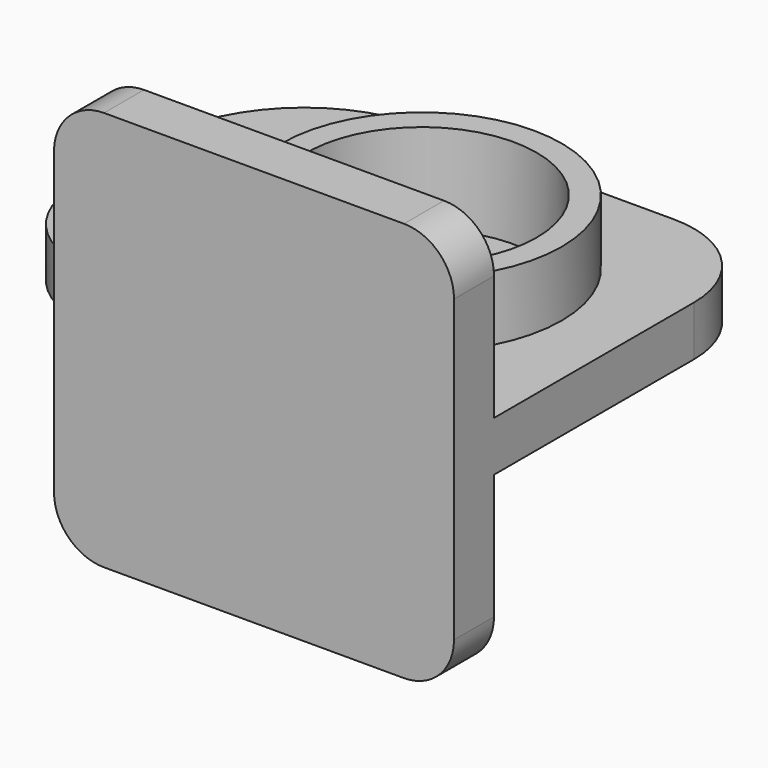
from build123d import *

# Parameters (mm, degrees)
F0_W      = 20
F0_H      = 5
F1_DEPTH  = 20
F1_FACE_W = 40
F1_FACE_H = 5
F2_DEPTH  = 20
F0_R      = 14
F0_R_2    = 11.5
F3_DEPTH  = 9
F0_R_3    = 4.25
F4_DEPTH  = 2.5
F0_R_4    = 6.5
F5_DEPTH  = 2.5
F6_R      = 15
F6_2_R    = 15
F7_R      = 10
F7_2_R    = 10
F8_R      = 10
F8_2_R    = 10
F9_R      = 5
F11_R     = 2.5
F12_DEPTH = 1.5


with BuildPart() as f1:
    # F0 (on Top) → F1 (new body)
    with BuildSketch(Plane.XY):
        with Locations((-9.850006, -18.65)):
            Rectangle(F0_W, F0_H)
        with Locations((10.149994, -18.65)):
            Rectangle(F0_W, F0_H)
    extrude(amount=F1_DEPTH)

    # F1_face (on face) → F2 (join)
    with BuildSketch(Plane(origin=(0.149994, -18.65, 0), x_dir=(1, 0, 0), z_dir=(0, 0, -1))):
        Rectangle(F1_FACE_W, F1_FACE_H)
    extrude(amount=F2_DEPTH)

    # F9
    f9_edges = [f1.edges().sort_by_distance(p)[0] for p in [
        (-19.850006, -18.65, 20),
        (20.149994, -18.65, 20),
        (20.149994, -18.65, -20),
        (-19.850006, -18.65, -20),
    ]]
    fillet(f9_edges, radius=F9_R)


with BuildPart() as f3:
    # F0 (on Top) → F3 (new body)
    with BuildSketch(Plane.XY):
        Circle(F0_R)
        Circle(F0_R_2, mode=Mode.SUBTRACT)
    extrude(amount=F3_DEPTH)


with BuildPart() as f4:
    # F0 (on Top) → F4 (new body)
    with BuildSketch(Plane.XY):
        Polygon((-19.850006, -16.15), (0.149994, -16.15), (20.149994, -16.15), (20.149994, 18.85), (-29.850006, 18.85), (-29.850006, -16.15), align=None)
        with Locations((-20, 0)):
            Circle(F0_R_3, mode=Mode.SUBTRACT)
        Circle(F0_R, mode=Mode.SUBTRACT)
        Circle(F0_R)
        Circle(F0_R_2, mode=Mode.SUBTRACT)
    extrude(amount=F4_DEPTH)

    # F6#2
    f6_2_edges = [f4.edges().sort_by_distance(p)[0] for p in [
        (-29.850006, 18.85, 1.25),
    ]]
    fillet(f6_2_edges, radius=F6_2_R)

    # F7#2
    f7_2_edges = [f4.edges().sort_by_distance(p)[0] for p in [
        (20.149994, 18.85, 1.25),
    ]]
    fillet(f7_2_edges, radius=F7_2_R)

    # F8#2
    f8_2_edges = [f4.edges().sort_by_distance(p)[0] for p in [
        (-29.850006, -16.15, 1.25),
    ]]
    fillet(f8_2_edges, radius=F8_2_R)


with BuildPart() as f5:
    # F0 (on Top) → F5 (new body)
    with BuildSketch(Plane.XY):
        Polygon((-19.850006, -16.15), (0.149994, -16.15), (20.149994, -16.15), (20.149994, 18.85), (-29.850006, 18.85), (-29.850006, -16.15), align=None)
        with Locations((-20, 0)):
            Circle(F0_R_3, mode=Mode.SUBTRACT)
        Circle(F0_R, mode=Mode.SUBTRACT)
        Circle(F0_R)
        Circle(F0_R_2, mode=Mode.SUBTRACT)
        Circle(F0_R_2)
        Circle(F0_R_4, mode=Mode.SUBTRACT)
    extrude(amount=-F5_DEPTH)

    # F6
    f6_edges = [f5.edges().sort_by_distance(p)[0] for p in [
        (-29.850006, 18.85, -1.25),
    ]]
    fillet(f6_edges, radius=F6_R)

    # F7
    f7_edges = [f5.edges().sort_by_distance(p)[0] for p in [
        (20.149994, 18.85, -1.25),
    ]]
    fillet(f7_edges, radius=F7_R)

    # F8
    f8_edges = [f5.edges().sort_by_distance(p)[0] for p in [
        (-29.850006, -16.15, -1.25),
    ]]
    fillet(f8_edges, radius=F8_R)


with BuildPart() as f1_1:
    add(f1.part)

    # F10: union F3, F4, F5
    add(f3.part)
    add(f4.part)
    add(f5.part)

    # F11 (on face) → F12 (cut)
    with BuildSketch(Plane(origin=(0, -16.15, 0), x_dir=(-1, 0, 0), z_dir=(0, 1, 0))):
        with Locations((-10, 13)):
            Circle(F11_R)
        with Locations((10, 13)):
            Circle(F11_R)
        with Locations((-10, -13)):
            Circle(F11_R)
        with Locations((10, -13)):
            Circle(F11_R)
    extrude(amount=-F12_DEPTH, mode=Mode.SUBTRACT)


solid = f1_1.part
